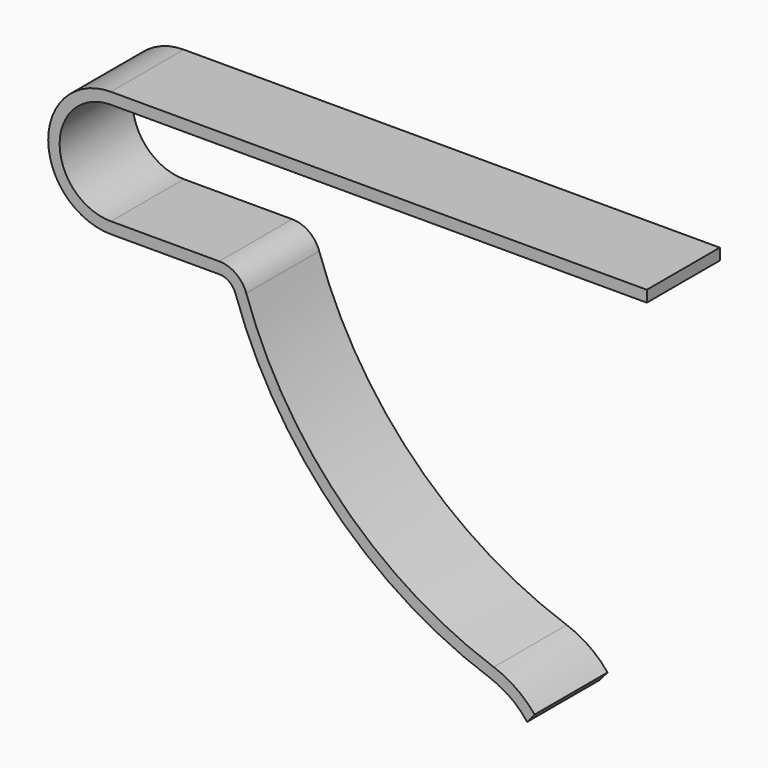
from build123d import *

# Parameters (mm, degrees)
F1_DEPTH = 16


with BuildPart() as f1:
    # F0 (on Front) → F1 (new body)
    with BuildSketch(Plane.XZ):
        with BuildLine():
            ThreePointArc((0, -9), (-9, 0), (0, 9))
            Line((0, 9), (94, 9))
            Line((94, 9), (94, 11))
            Line((94, 11), (0, 11))
            ThreePointArc((0, 11), (-11, 0), (0, -11))
            Line((0, -11), (19, -11))
            ThreePointArc((19, -11), (20.746435, -11.560745), (21.84, -13.033356))
            ThreePointArc((21.84, -13.033356), (38.975661, -40.632695), (66.498813, -57.89046))
            ThreePointArc((66.498813, -57.89046), (70.094434, -59.751434), (73.007182, -62.563483))
            Line((73.007182, -62.563483), (74.3191, -61))
            ThreePointArc((74.3191, -61), (71.083349, -58.001162), (67.151624, -56))
            ThreePointArc((67.151624, -56), (40.393003, -39.221618), (23.733333, -12.388927))
            ThreePointArc((23.733333, -12.388927), (21.910725, -9.934575), (19, -9))
            Line((19, -9), (0, -9))
        make_face()
    extrude(amount=F1_DEPTH)


solid = f1.part
